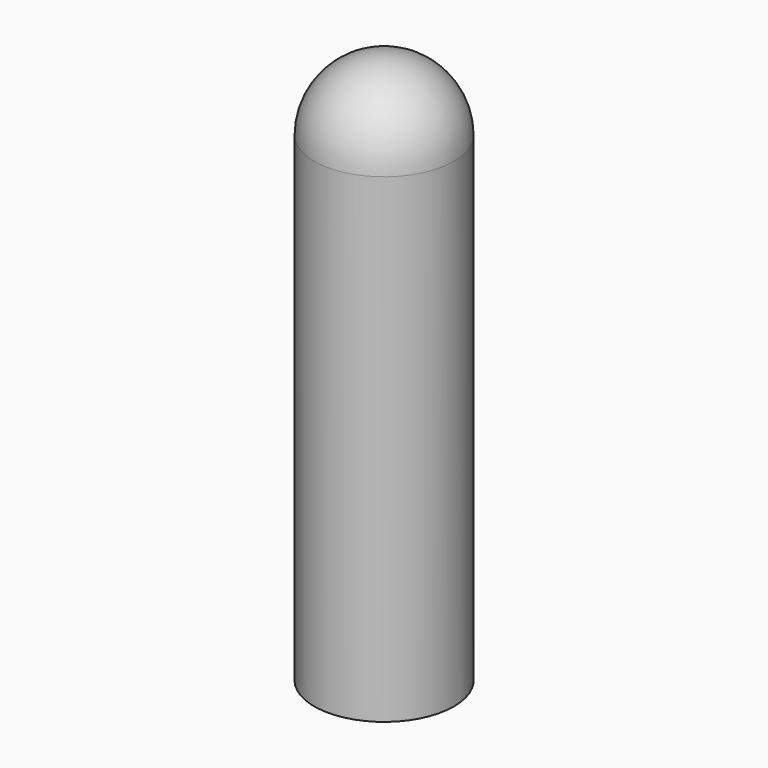
from build123d import *

# Parameters (mm, degrees)
F0_R     = 2.794
F0_R_2   = 1.7145
F1_DEPTH = 21.971
F2_R     = 1.7145
F3_DEPTH = 1.778
F4_R     = 2.794


with BuildPart() as f1:
    # F0 (on Top) → F1 (new body)
    with BuildSketch(Plane.XY):
        Circle(F0_R)
        Circle(F0_R_2, mode=Mode.SUBTRACT)
    extrude(amount=F1_DEPTH)

    # F2 (on face) → F3 (join)
    with BuildSketch(Plane.XY.offset(21.971)):
        Circle(F2_R)
    extrude(amount=-F3_DEPTH)

    # F4
    f4_edges = [f1.edges().sort_by_distance(p)[0] for p in [
        (-2.794, 0, 21.971),
    ]]
    fillet(f4_edges, radius=F4_R)


solid = f1.part
